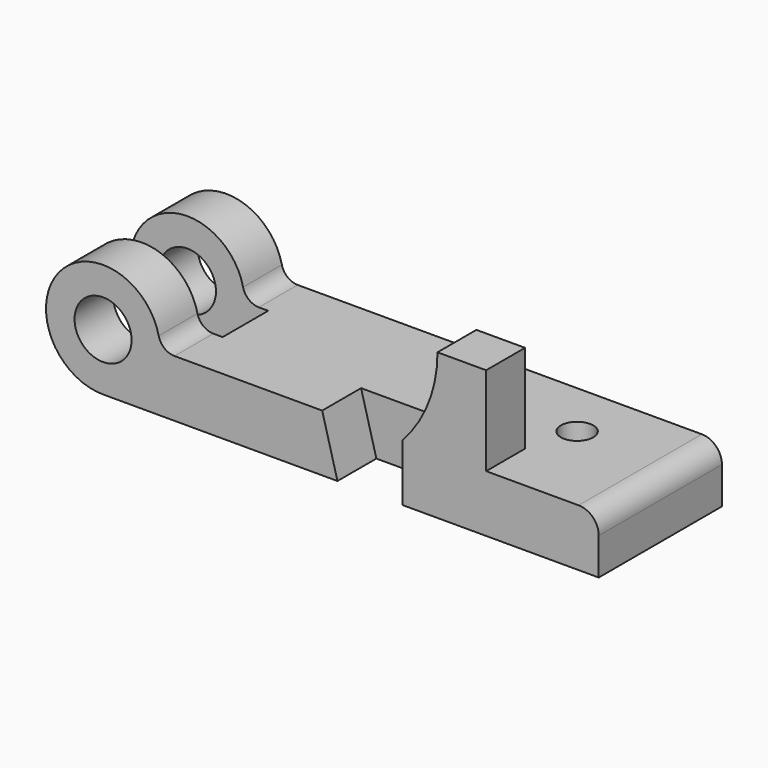
from build123d import *

# Parameters (mm, degrees)
F0_R     = 0.44
F1_DEPTH = 2.375
F2_W     = 2.5913788058
F2_H     = 0.879
F3_DEPTH = 25
F5_DEPTH = 0.75
F7_DEPTH = 0.75
F8_R     = 0.25
F9_DEPTH = 25
F10_R    = 0.31


with BuildPart() as f1:
    # F0 (on Front) → F1 (new body)
    with BuildSketch(Plane.XZ):
        with BuildLine():
            ThreePointArc((-4.9182944256, 10.6661773273), (-5.0742953332, 10.7208219669), (-5.1620993338, 10.8608675928))
            ThreePointArc((-5.1620993338, 10.8608675928), (-6.7079434791, 11.2153005222), (-6.0202926107, 9.7861773273))
            Line((-6.0202926107, 9.7861773273), (-5.5571346355, 9.7861773273))
            Line((-5.5571346355, 9.7861773273), (1.6257073893, 9.7861773273))
            Line((1.6257073893, 9.7861773273), (1.6257073893, 10.6661773273))
            Line((1.6257073893, 10.6661773273), (-4.9182944256, 10.6661773273))
        make_face()
        with Locations((-6.0202926107, 10.6661773273)):
            Circle(F0_R, mode=Mode.SUBTRACT)
    extrude(amount=F1_DEPTH)

    # F2 (on Top) → F3 (cut)
    with BuildSketch(Plane.XY):
        with Locations((-6.0699820136, -1.1875)):
            Rectangle(F2_W, F2_H)
    extrude(amount=F3_DEPTH, mode=Mode.SUBTRACT)

    # F4 (on face) → F5 (cut)
    with BuildSketch(Plane.XZ.offset(2.375)):
        Polygon((-1.4042926107, 10.6661773273), (-2.6402926107, 10.6661773273), (-2.4042926107, 9.7861773273), (-1.4042926107, 9.7861773273), align=None)
    extrude(amount=-F5_DEPTH, mode=Mode.SUBTRACT)

    # F6 (on face) → F7 (join)
    with BuildSketch(Plane.XZ.offset(2.375)):
        with BuildLine():
            ThreePointArc((-0.8612926107, 12.0361773273), (-1.0020085413, 11.2993410136), (-1.4042926107, 10.6661773273))
            Line((-1.4042926107, 10.6661773273), (-0.1112926107, 10.6661773273))
            Line((-0.1112926107, 10.6661773273), (-0.1112926107, 12.0361773273))
            Line((-0.1112926107, 12.0361773273), (-0.8612926107, 12.0361773273))
        make_face()
    extrude(amount=-F7_DEPTH)

    # F8 (on face) → F9 (cut)
    with BuildSketch(Plane.XY.offset(10.6661773273)):
        with Locations((0.0957073893, -0.88)):
            Circle(F8_R)
    extrude(amount=-F9_DEPTH, mode=Mode.SUBTRACT)

    # F10
    f10_edges = [f1.edges().sort_by_distance(p)[0] for p in [
        (1.625707, -1.1875, 10.666177),
    ]]
    fillet(f10_edges, radius=F10_R)


solid = f1.part
